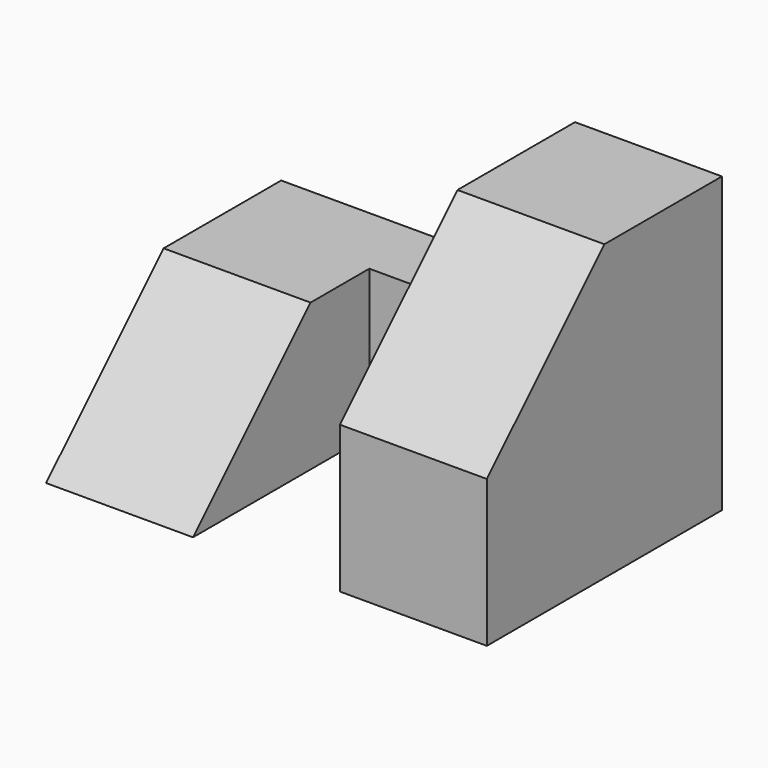
from build123d import *

# Parameters (mm, degrees)
F0_W     = 25.4
F0_H     = 25.4
F1_DEPTH = 12.7
F3_DEPTH = 12.7
F4_W     = 25.4
F4_H     = 12.7
F5_DEPTH = 25.4
F6_W     = 12.7
F6_H     = 19.05
F7_DEPTH = 12.7
F9_DEPTH = 12.7


with BuildPart() as f1:
    # F0 (on Right) → F1 (new body)
    with BuildSketch(Plane.YZ):
        with Locations((12.7, 12.7)):
            Rectangle(F0_W, F0_H)
    extrude(amount=F1_DEPTH)

    # F2 (on face) → F3 (cut)
    with BuildSketch(Plane.YZ.offset(12.7)):
        Polygon((12.7, 25.4), (0, 25.4), (0, 12.7), align=None)
    extrude(amount=-F3_DEPTH, mode=Mode.SUBTRACT)

    # F4 (on face) → F5 (join)
    with BuildSketch(Plane(origin=(0, 0, 0), x_dir=(0, -1, 0), z_dir=(-1, 0, 0))):
        with Locations((-12.7, 6.35)):
            Rectangle(F4_W, F4_H)
    extrude(amount=F5_DEPTH)

    # F6 (on face) → F7 (cut)
    with BuildSketch(Plane.XY.offset(12.7)):
        with Locations((-6.35, 9.525)):
            Rectangle(F6_W, F6_H)
    extrude(amount=-F7_DEPTH, mode=Mode.SUBTRACT)

    # F8 (on face) → F9 (cut)
    with BuildSketch(Plane.YZ.offset(-12.7)):
        Polygon((12.7, 12.7), (0, 12.7), (0, 0), align=None)
    extrude(amount=-F9_DEPTH, mode=Mode.SUBTRACT)


solid = f1.part
